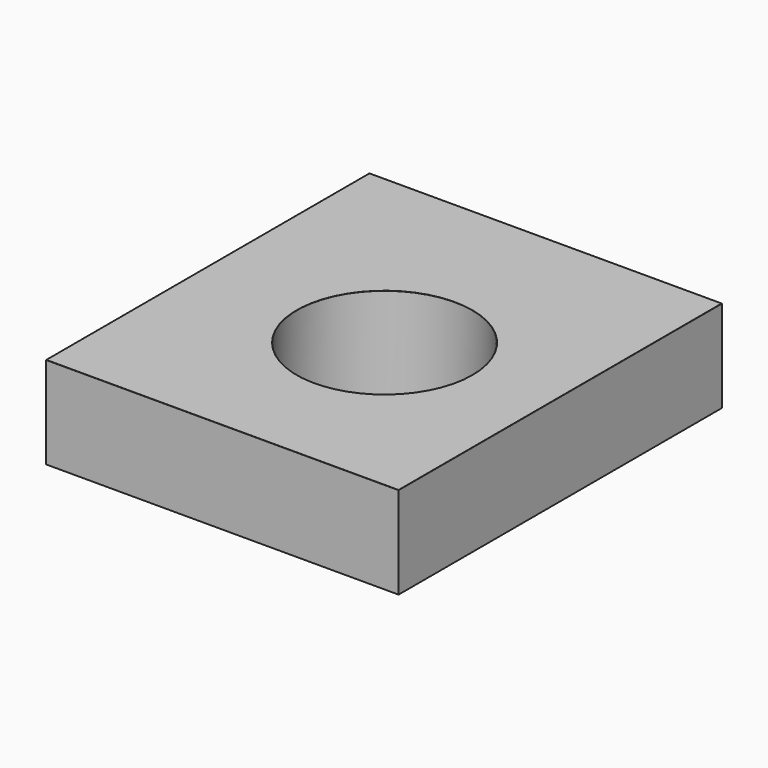
from build123d import *

# Parameters (mm, degrees)
F0_W     = 7975.116693
F0_H     = 9144
F0_R     = 1985.484924
F1_DEPTH = 2082.8
F2_R     = 5.08


with BuildPart() as f1:
    # F0 (on Top) → F1 (new body)
    with BuildSketch(Plane.XY):
        with Locations((-269.325628, 320.878746)):
            Rectangle(F0_W, F0_H)
        Circle(F0_R, mode=Mode.SUBTRACT)
    extrude(amount=F1_DEPTH)

    # F2
    f2_edges = [f1.edges().sort_by_distance(p)[0] for p in [
        (-269.325628, 4892.878746, 2082.8),
        (-4256.883975, 320.878746, 2082.8),
        (-269.325628, -4251.121254, 2082.8),
        (3718.232718, 320.878746, 2082.8),
        (-1985.484924, 0, 2082.8),
    ]]
    fillet(f2_edges, radius=F2_R)


solid = f1.part
